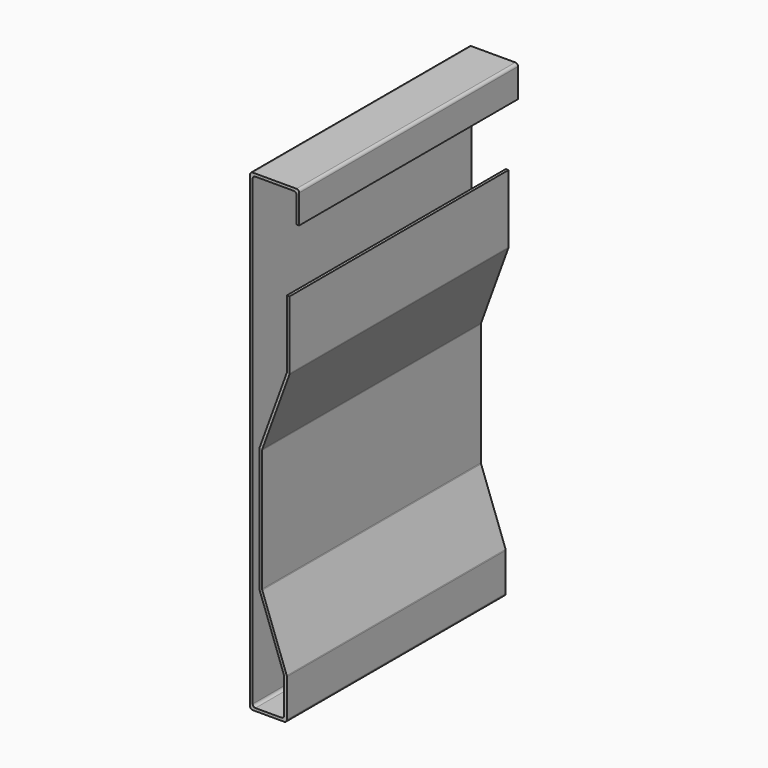
from build123d import *

# Parameters (mm, degrees)
F1_DEPTH = 200
F2_R     = 2


with BuildPart() as f1:
    # F0 (on Front) → F1 (new body)
    with BuildSketch(Plane.XZ):
        Polygon((36, 0), (0, 0), (0, -346), (27, -346), (27, -316), (8.874961, -266.201865), (8.874961, -176.201865), (29, -120.908776), (29, -70.908776), (27, -70.908776), (27, -120.556122), (6.874961, -175.849212), (6.874961, -266.554519), (25, -316.352654), (25, -344), (2, -344), (2, -2), (34, -2), (34, -23), (36, -23), align=None)
    extrude(amount=F1_DEPTH)

    # F2
    f2_edges = [f1.edges().sort_by_distance(p)[0] for p in [
        (0, -100, 0),
        (36, -100, 0),
        (34, -100, -2),
        (2, -100, -2),
        (0, -100, -346),
        (2, -100, -344),
        (27, -100, -346),
        (25, -100, -344),
        (25, -100, -316.352654),
        (27, -100, -316),
        (8.874961, -100, -266.201865),
        (6.874961, -100, -266.554519),
        (6.874961, -100, -175.849212),
        (8.874961, -100, -176.201865),
        (29, -100, -120.908776),
        (27, -100, -120.556122),
    ]]
    fillet(f2_edges, radius=F2_R)


solid = f1.part
